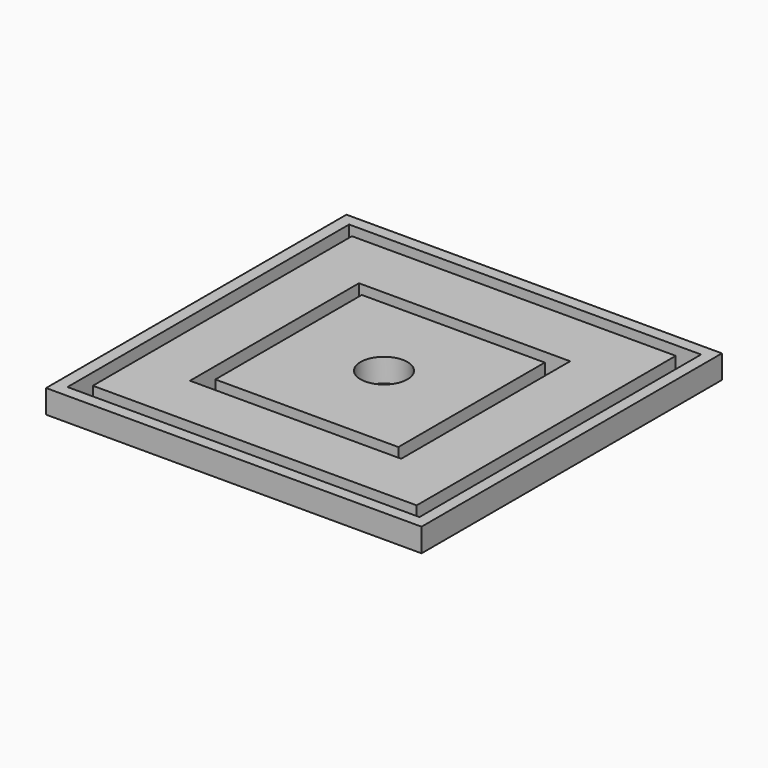
from build123d import *

# Parameters (mm, degrees)
F0_W      = 80
F0_H      = 80
F1_DEPTH  = 5
F2_R      = 5
F3_DEPTH  = 5
F4_W      = 75
F4_H      = 3
F5_DEPTH  = 20
F6_W      = 3
F6_H      = 75
F7_DEPTH  = 25
F8_W      = 75
F8_H      = 3
F9_DEPTH  = 25
F10_W     = 3
F10_H     = 75
F11_DEPTH = 25
F12_W     = 45
F12_H     = 3
F13_DEPTH = 25
F14_W     = 3
F14_H     = 45
F15_DEPTH = 25
F16_W     = 45
F16_H     = 3
F17_DEPTH = 25
F18_W     = 3
F18_H     = 45
F19_DEPTH = 25


with BuildPart() as f1:
    # F0 (on Top) → F1 (new body)
    with BuildSketch(Plane.XY):
        with Locations((23.799344, 11.43092)):
            Rectangle(F0_W, F0_H)
    extrude(amount=F1_DEPTH)

    # F2 (on face) → F3 (cut)
    with BuildSketch(Plane.XY.offset(5)):
        with Locations((23.799344, 11.43092)):
            Circle(F2_R)
    extrude(amount=-F3_DEPTH, mode=Mode.SUBTRACT)

    # F4 (on face) → F5 (cut)
    with BuildSketch(Plane.XY.offset(5)):
        with Locations((23.859344, 47.43092)):
            Rectangle(F4_W, F4_H)
    extrude(amount=-F5_DEPTH, mode=Mode.SUBTRACT)

    # F6 (on face) → F7 (cut)
    with BuildSketch(Plane.XY.offset(5)):
        with Locations((-12.140656, 11.43092)):
            Rectangle(F6_W, F6_H)
    extrude(amount=-F7_DEPTH, mode=Mode.SUBTRACT)

    # F8 (on face) → F9 (cut)
    with BuildSketch(Plane.XY.offset(5)):
        with Locations((23.859344, -24.56908)):
            Rectangle(F8_W, F8_H)
    extrude(amount=-F9_DEPTH, mode=Mode.SUBTRACT)

    # F10 (on face) → F11 (cut)
    with BuildSketch(Plane.XY.offset(5)):
        with Locations((59.859344, 11.43092)):
            Rectangle(F10_W, F10_H)
    extrude(amount=-F11_DEPTH, mode=Mode.SUBTRACT)

    # F12 (on face) → F13 (cut)
    with BuildSketch(Plane.XY.offset(5)):
        with Locations((23.359344, 31.93092)):
            Rectangle(F12_W, F12_H)
    extrude(amount=-F13_DEPTH, mode=Mode.SUBTRACT)

    # F14 (on face) → F15 (cut)
    with BuildSketch(Plane.XY.offset(5)):
        with Locations((2.359344, 10.93092)):
            Rectangle(F14_W, F14_H)
    extrude(amount=-F15_DEPTH, mode=Mode.SUBTRACT)

    # F16 (on face) → F17 (cut)
    with BuildSketch(Plane.XY.offset(5)):
        with Locations((23.359344, -10.06908)):
            Rectangle(F16_W, F16_H)
    extrude(amount=-F17_DEPTH, mode=Mode.SUBTRACT)

    # F18 (on face) → F19 (cut)
    with BuildSketch(Plane.XY.offset(5)):
        with Locations((44.359344, 10.93092)):
            Rectangle(F18_W, F18_H)
    extrude(amount=-F19_DEPTH, mode=Mode.SUBTRACT)


solid = f1.part
